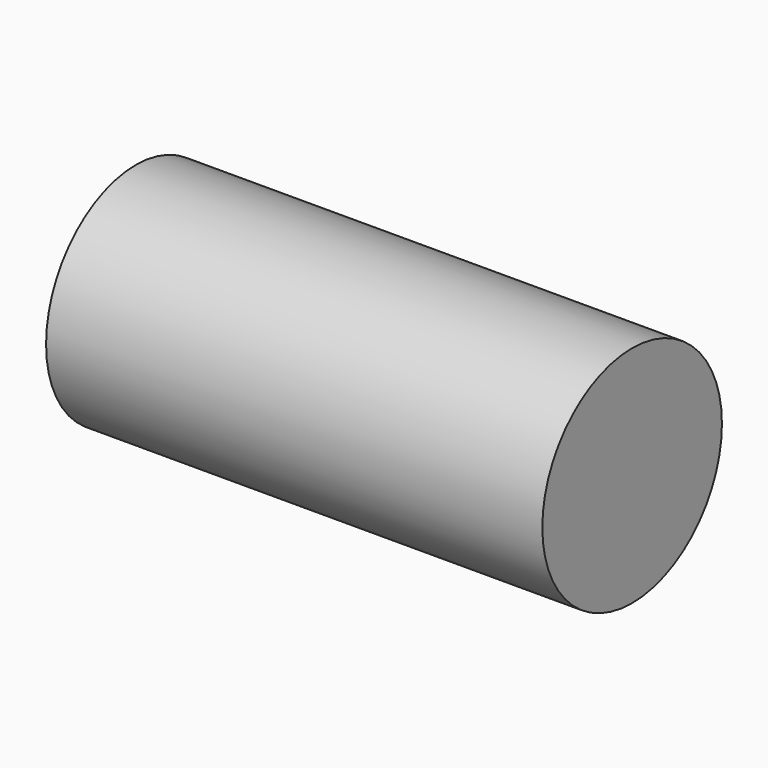
from build123d import *

# Parameters (mm, degrees)
F0_R     = 34.4692902279
F1_DEPTH = 152.4
F3_D     = 50.8
F3_DEPTH = 127
F3_TIP   = 15.2618597233


with BuildPart() as f1:
    # F0 (on Right) → F1 (new body)
    with BuildSketch(Plane.YZ):
        with Locations((-24.6004387736, 23.7804241478)):
            Circle(F0_R)
    extrude(amount=F1_DEPTH)

    # F3
    with Locations(Plane(origin=(0, 0, 0), x_dir=(0, 1, 0), z_dir=(-1, 0, 0))):
        with Locations((-24.8347297311, -25.1861661673)):
            Hole(F3_D / 2, depth=F3_DEPTH)
            with Locations((0, 0, -(F3_DEPTH + F3_TIP / 2))):  # 118° drill point
                Cone(0, F3_D / 2, F3_TIP, mode=Mode.SUBTRACT)


solid = f1.part
